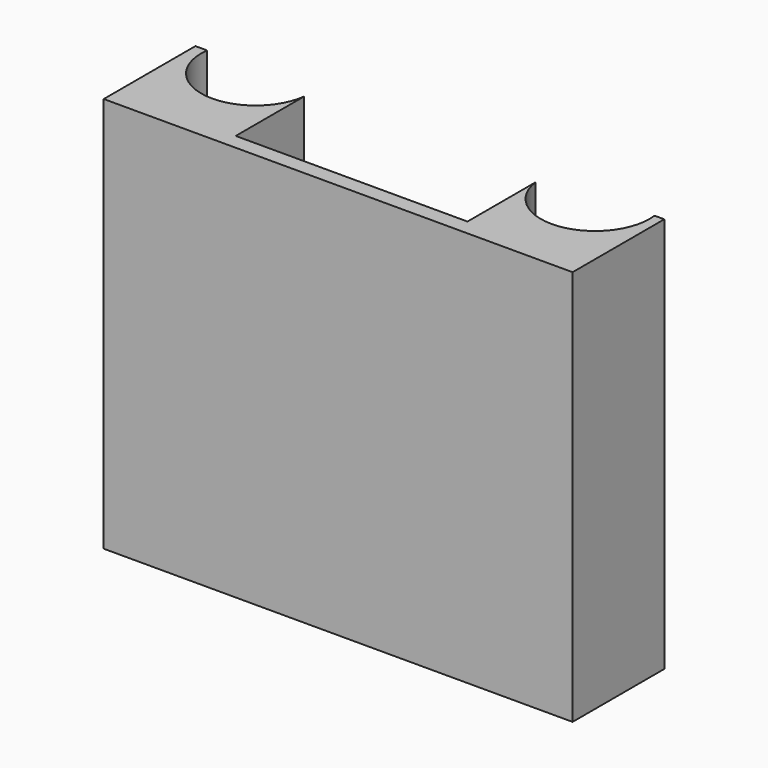
from build123d import *

# Parameters (mm, degrees)
F2_DEPTH  = 38
F2_FACE_W = 22.245048
F2_FACE_H = 38
F3_DEPTH  = 9.5


with BuildPart() as f2:
    # F1 (on face) → F2 (new body)
    with BuildSketch(Plane.XY):
        with BuildLine():
            ThreePointArc((-11.031821, 5.5), (-11.001501, 5.176519), (-10.991381, 4.851777))
            ThreePointArc((-10.991381, 4.851777), (-16.531552, -0.353532), (-21.381799, 5.5))
            Line((-21.381799, 5.5), (-22.5, 5.5))
            Line((-22.5, 5.5), (-22.5, -5.5))
            Line((-22.5, -5.5), (22.5, -5.5))
            Line((22.5, -5.5), (22.5, 5.5))
            Line((22.5, 5.5), (21.561348, 5.5))
            ThreePointArc((21.561348, 5.5), (21.592364, 5.172855), (21.602717, 4.844405))
            ThreePointArc((21.602717, 4.844405), (16.058838, -0.360671), (11.213227, 5.5))
            Line((11.213227, 5.5), (-11.031821, 5.5))
        make_face()
    extrude(amount=F2_DEPTH)

    # F2_face (on face) → F3 (cut)
    with BuildSketch(Plane(origin=(0.090703, 5.5, 19), x_dir=(-1, 0, 0), z_dir=(0, 1, 0))):
        Rectangle(F2_FACE_W, F2_FACE_H)
    extrude(amount=-F3_DEPTH, mode=Mode.SUBTRACT)


solid = f2.part
